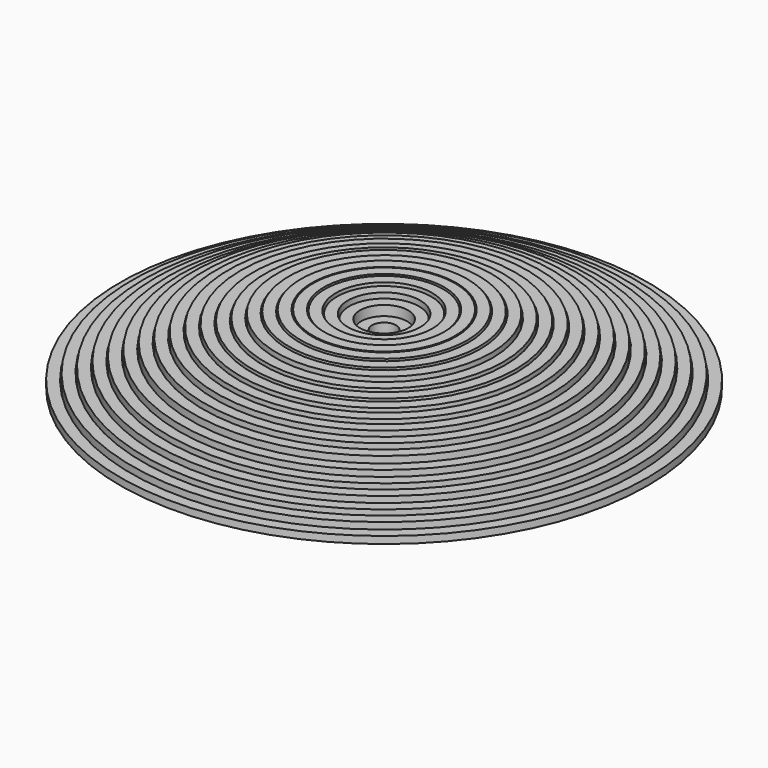
from build123d import *

# Parameters (mm, degrees)
F0_W    = 2.5093168
F0_H    = 7.8673198
F0_W_2  = 2.504694
F0_H_2  = 11.9033798
F0_W_3  = 2.5025604
F0_H_3  = 14.0391134
F0_W_4  = 2.5015444
F0_H_4  = 15.1384762
F0_W_5  = 2.5009856
F0_H_5  = 15.7513782
F0_W_6  = 2.5007316
F0_H_6  = 16.0118298
F0_W_7  = 2.5007824
F0_H_7  = 15.9842708
F0_W_8  = 2.5010872
F0_H_8  = 15.6309568
F0_W_9  = 2.5014428
F0_H_9  = 15.2509474
F0_W_10 = 2.5023064
F0_H_10 = 14.311122
F0_W_11 = 2.502916
F0_H_11 = 13.6838944
F0_W_12 = 2.5033986
F0_H_12 = 13.1867402
F0_W_13 = 2.5042114
F0_H_13 = 12.3991624
F0_W_14 = 2.5051258
F0_H_14 = 11.5107974
F0_W_15 = 2.506345
F0_H_15 = 10.3823008
F0_W_16 = 2.5076658
F0_H_16 = 9.2531438
F0_W_17 = 2.509393
F0_H_17 = 7.8487016
F0_W_18 = 2.5111202
F0_H_18 = 6.5649602
F0_W_19 = 2.5127712
F0_H_19 = 5.4454298
F0_W_20 = 2.5149302
F0_H_20 = 4.1500044
F0_W_21 = 2.5170638
F0_H_21 = 3.0309566
F0_W_22 = 2.5203658
F0_H_22 = 1.6440658


with BuildPart() as f1:
    # F0 (on Front) → F1 (revolve)
    with BuildSketch(Plane.XZ):
        with Locations((1.2585853584, 3.9465506561)):
            Rectangle(F0_W, F0_H)
    revolve(axis=Axis((0.0039269584, 0, 14.6686907561), (0, 0, 1)))


with BuildPart() as f1b:
    # F0 (on Front) → F1, piece 2 (revolve)
    with BuildSketch(Plane.XZ):
        with Locations((4.0525853584, 5.9645806561)):
            Rectangle(F0_W_2, F0_H_2)
    revolve(axis=Axis((0.0039269584, 0, 14.6686907561), (0, 0, 1)))


with BuildPart() as f1c:
    # F0 (on Front) → F1, piece 3 (revolve)
    with BuildSketch(Plane.XZ):
        with Locations((6.8465853584, 7.0324474561)):
            Rectangle(F0_W_3, F0_H_3)
    revolve(axis=Axis((0.0039269584, 0, 14.6686907561), (0, 0, 1)))


with BuildPart() as f1d:
    # F0 (on Front) → F1, piece 4 (revolve)
    with BuildSketch(Plane.XZ):
        with Locations((9.6405853584, 7.5821288561)):
            Rectangle(F0_W_4, F0_H_4)
    revolve(axis=Axis((0.0039269584, 0, 14.6686907561), (0, 0, 1)))


with BuildPart() as f1e:
    # F0 (on Front) → F1, piece 5 (revolve)
    with BuildSketch(Plane.XZ):
        with Locations((12.4345853584, 7.8885798561)):
            Rectangle(F0_W_5, F0_H_5)
    revolve(axis=Axis((0.0039269584, 0, 14.6686907561), (0, 0, 1)))


with BuildPart() as f1f:
    # F0 (on Front) → F1, piece 6 (revolve)
    with BuildSketch(Plane.XZ):
        with Locations((15.2285853584, 8.0188056561)):
            Rectangle(F0_W_6, F0_H_6)
    revolve(axis=Axis((0.0039269584, 0, 14.6686907561), (0, 0, 1)))


with BuildPart() as f1g:
    # F0 (on Front) → F1, piece 7 (revolve)
    with BuildSketch(Plane.XZ):
        with Locations((18.0225853584, 8.0050261561)):
            Rectangle(F0_W_7, F0_H_7)
    revolve(axis=Axis((0.0039269584, 0, 14.6686907561), (0, 0, 1)))


with BuildPart() as f1h:
    # F0 (on Front) → F1, piece 8 (revolve)
    with BuildSketch(Plane.XZ):
        with Locations((20.8165853584, 7.8283691561)):
            Rectangle(F0_W_8, F0_H_8)
    revolve(axis=Axis((0.0039269584, 0, 14.6686907561), (0, 0, 1)))


with BuildPart() as f1i:
    # F0 (on Front) → F1, piece 9 (revolve)
    with BuildSketch(Plane.XZ):
        with Locations((23.6105853584, 7.6383644561)):
            Rectangle(F0_W_9, F0_H_9)
    revolve(axis=Axis((0.0039269584, 0, 14.6686907561), (0, 0, 1)))


with BuildPart() as f1j:
    # F0 (on Front) → F1, piece 10 (revolve)
    with BuildSketch(Plane.XZ):
        with Locations((26.4045853584, 7.1684517561)):
            Rectangle(F0_W_10, F0_H_10)
    revolve(axis=Axis((0.0039269584, 0, 14.6686907561), (0, 0, 1)))


with BuildPart() as f1k:
    # F0 (on Front) → F1, piece 11 (revolve)
    with BuildSketch(Plane.XZ):
        with Locations((29.1985853584, 6.8548379561)):
            Rectangle(F0_W_11, F0_H_11)
    revolve(axis=Axis((0.0039269584, 0, 14.6686907561), (0, 0, 1)))


with BuildPart() as f1l:
    # F0 (on Front) → F1, piece 12 (revolve)
    with BuildSketch(Plane.XZ):
        with Locations((31.9925726584, 6.6062608561)):
            Rectangle(F0_W_12, F0_H_12)
    revolve(axis=Axis((0.0039269584, 0, 14.6686907561), (0, 0, 1)))


with BuildPart() as f1m:
    # F0 (on Front) → F1, piece 13 (revolve)
    with BuildSketch(Plane.XZ):
        with Locations((34.7865726584, 6.2124719561)):
            Rectangle(F0_W_13, F0_H_13)
    revolve(axis=Axis((0.0039269584, 0, 14.6686907561), (0, 0, 1)))


with BuildPart() as f1n:
    # F0 (on Front) → F1, piece 14 (revolve)
    with BuildSketch(Plane.XZ):
        with Locations((37.5805726584, 5.7682894561)):
            Rectangle(F0_W_14, F0_H_14)
    revolve(axis=Axis((0.0039269584, 0, 14.6686907561), (0, 0, 1)))


with BuildPart() as f1o:
    # F0 (on Front) → F1, piece 15 (revolve)
    with BuildSketch(Plane.XZ):
        with Locations((40.3745726584, 5.2040411561)):
            Rectangle(F0_W_15, F0_H_15)
    revolve(axis=Axis((0.0039269584, 0, 14.6686907561), (0, 0, 1)))


with BuildPart() as f1p:
    # F0 (on Front) → F1, piece 16 (revolve)
    with BuildSketch(Plane.XZ):
        with Locations((43.1685726584, 4.6394626561)):
            Rectangle(F0_W_16, F0_H_16)
    revolve(axis=Axis((0.0039269584, 0, 14.6686907561), (0, 0, 1)))


with BuildPart() as f1q:
    # F0 (on Front) → F1, piece 17 (revolve)
    with BuildSketch(Plane.XZ):
        with Locations((45.9625726584, 3.9372415561)):
            Rectangle(F0_W_17, F0_H_17)
    revolve(axis=Axis((0.0039269584, 0, 14.6686907561), (0, 0, 1)))


with BuildPart() as f1r:
    # F0 (on Front) → F1, piece 18 (revolve)
    with BuildSketch(Plane.XZ):
        with Locations((48.7565726584, 3.2953708561)):
            Rectangle(F0_W_18, F0_H_18)
    revolve(axis=Axis((0.0039269584, 0, 14.6686907561), (0, 0, 1)))


with BuildPart() as f1s:
    # F0 (on Front) → F1, piece 19 (revolve)
    with BuildSketch(Plane.XZ):
        with Locations((51.5505853584, 2.7356056561)):
            Rectangle(F0_W_19, F0_H_19)
    revolve(axis=Axis((0.0039269584, 0, 14.6686907561), (0, 0, 1)))


with BuildPart() as f1t:
    # F0 (on Front) → F1, piece 20 (revolve)
    with BuildSketch(Plane.XZ):
        with Locations((54.3445726584, 2.0878929561)):
            Rectangle(F0_W_20, F0_H_20)
    revolve(axis=Axis((0.0039269584, 0, 14.6686907561), (0, 0, 1)))


with BuildPart() as f1u:
    # F0 (on Front) → F1, piece 21 (revolve)
    with BuildSketch(Plane.XZ):
        with Locations((57.1385726584, 1.5283690561)):
            Rectangle(F0_W_21, F0_H_21)
    revolve(axis=Axis((0.0039269584, 0, 14.6686907561), (0, 0, 1)))


with BuildPart() as f1v:
    # F0 (on Front) → F1, piece 22 (revolve)
    with BuildSketch(Plane.XZ):
        with Locations((59.9325726584, 0.8349236561)):
            Rectangle(F0_W_22, F0_H_22)
    revolve(axis=Axis((0.0039269584, 0, 14.6686907561), (0, 0, 1)))


solid = Compound([f1.part, f1b.part, f1c.part, f1d.part, f1e.part, f1f.part, f1g.part, f1h.part, f1i.part, f1j.part, f1k.part, f1l.part, f1m.part, f1n.part, f1o.part, f1p.part, f1q.part, f1r.part, f1s.part, f1t.part, f1u.part, f1v.part])
